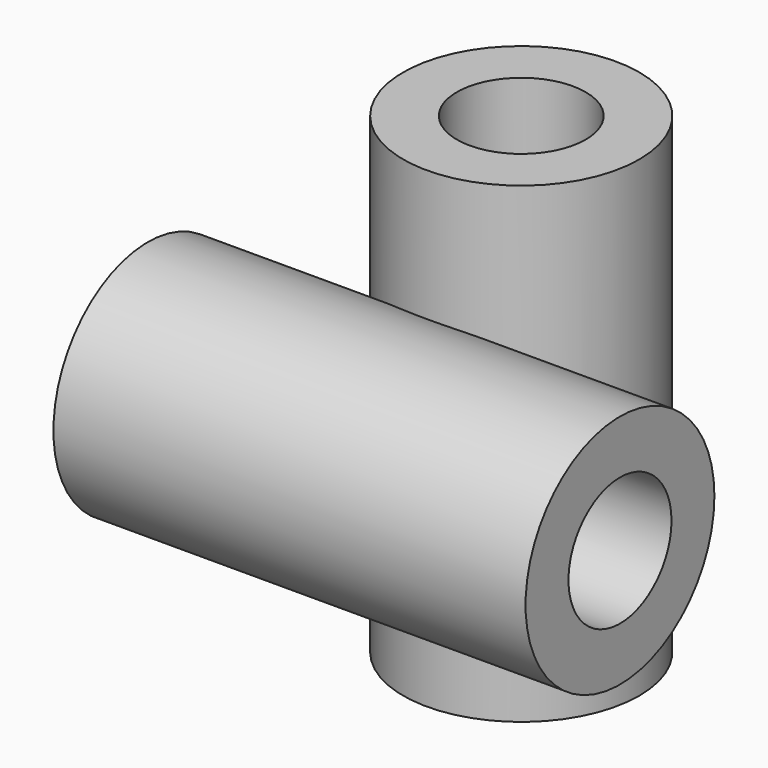
from build123d import *

# Parameters (mm, degrees)
F0_R     = 5.5
F0_R_2   = 3
F1_DEPTH = 11
F2_R     = 5.5
F2_R_2   = 3
F3_DEPTH = 11


with BuildPart() as f1:
    # F0 (on Right) → F1 (new body, symmetric)
    with BuildSketch(Plane.YZ):
        Circle(F0_R)
        Circle(F0_R_2, mode=Mode.SUBTRACT)
    extrude(amount=F1_DEPTH, both=True)

    # F2 (on Top) → F3 (join, symmetric)
    with BuildSketch(Plane.XY):
        with Locations((0, 8)):
            Circle(F2_R)
        with Locations((0, 8)):
            Circle(F2_R_2, mode=Mode.SUBTRACT)
    extrude(amount=F3_DEPTH, both=True)


solid = f1.part
